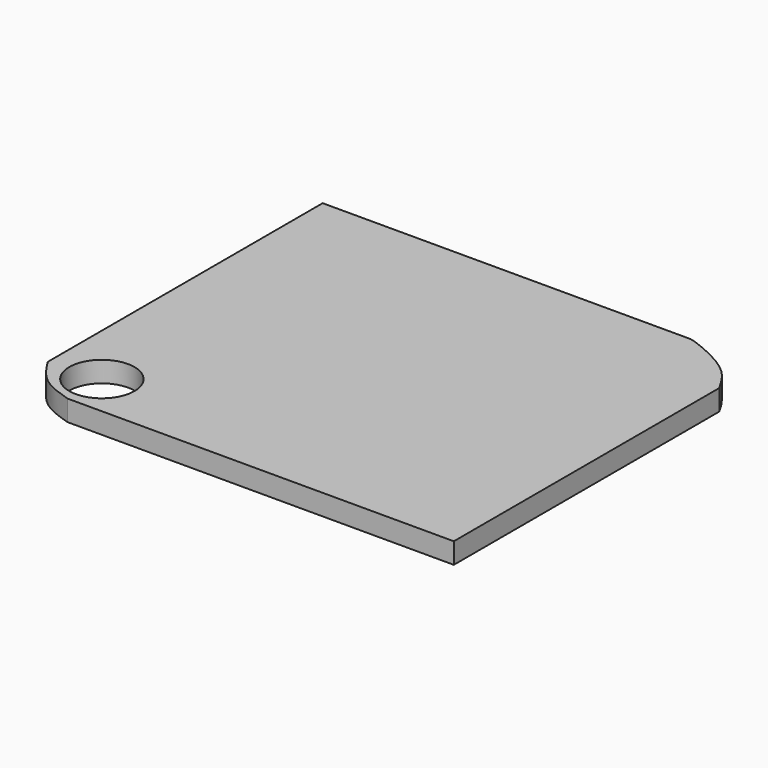
from build123d import *

# Parameters (mm, degrees)
F0_W     = 400
F0_H     = 350
F1_DEPTH = 19
F3_DEPTH = 19.001
F5_DEPTH = 19.0010001
F6_R     = 29.8311092156
F7_DEPTH = 19.0010001


with BuildPart() as f1:
    # F0 (on Top) → F1 (new body)
    with BuildSketch(Plane.XY):
        Rectangle(F0_W, F0_H)
    extrude(amount=F1_DEPTH)

    # F2 (on face) → F3 (cut, through all)
    with BuildSketch(Plane.XY.offset(19)):
        with BuildLine():
            Line((-200, -175), (-153.5498946905, -175))
            add(Edge.make_bspline(
                [(-153.5498946905, -175), (-163.4039395761, -171.8359123662), (-183.0925961159, -165.5139770182), (-194.3679083837, -148.2499611163), (-200, -139.6264731884)],
                knots=[0, 0, 0, 0, 0.5004935134, 1, 1, 1, 1], degree=3))
            Line((-200, -139.6264731884), (-200, -175))
        make_face()
    extrude(amount=-F3_DEPTH, mode=Mode.SUBTRACT)

    # F4 (on face) → F5 (cut, through all)
    with BuildSketch(Plane.XY.offset(19)):
        with BuildLine():
            add(Edge.make_bspline(
                [(200, 128.6446154118), (194.7222925813, 137.9655766375), (183.4252032849, 157.9173706538), (143.2622746246, 173.7434099364), (136.6848945618, 175)],
                knots=[0, 0, 0, 0, 0.4098176195, 0.877226772, 0.877226772, 0.877226772, 0.877226772], degree=3))
            Line((200, 128.6446154118), (200, 175))
            Line((200, 175), (136.6848945618, 175))
        make_face()
    extrude(amount=-F5_DEPTH, mode=Mode.SUBTRACT)

    # F6 (on face) → F7 (cut, through all)
    with BuildSketch(Plane.XY.offset(19)):
        with Locations((-153.1576812267, -136.0965818167)):
            Circle(F6_R)
    extrude(amount=-F7_DEPTH, mode=Mode.SUBTRACT)


solid = f1.part
